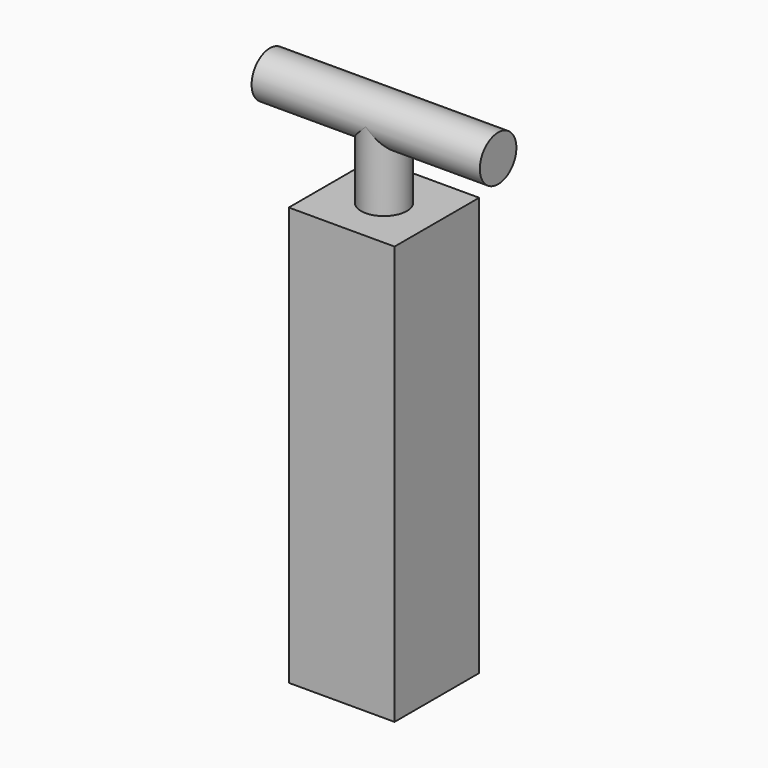
from build123d import *

# Parameters (mm, degrees)
F0_W     = 27.8
F0_H     = 27.8
F1_DEPTH = 110
F2_R     = 6
F3_DEPTH = 20
F4_R     = 6
F5_DEPTH = 30


with BuildPart() as f1:
    # F0 (on Top) → F1 (new body)
    with BuildSketch(Plane.XY):
        Rectangle(F0_W, F0_H)
    extrude(amount=F1_DEPTH)

    # F2 (on face) → F3 (join)
    with BuildSketch(Plane.XY.offset(110)):
        Circle(F2_R)
    extrude(amount=F3_DEPTH)

    # F4 (on Right) → F5 (join, symmetric)
    with BuildSketch(Plane.YZ):
        with Locations((0, 130)):
            Circle(F4_R)
    extrude(amount=F5_DEPTH, both=True)


solid = f1.part
